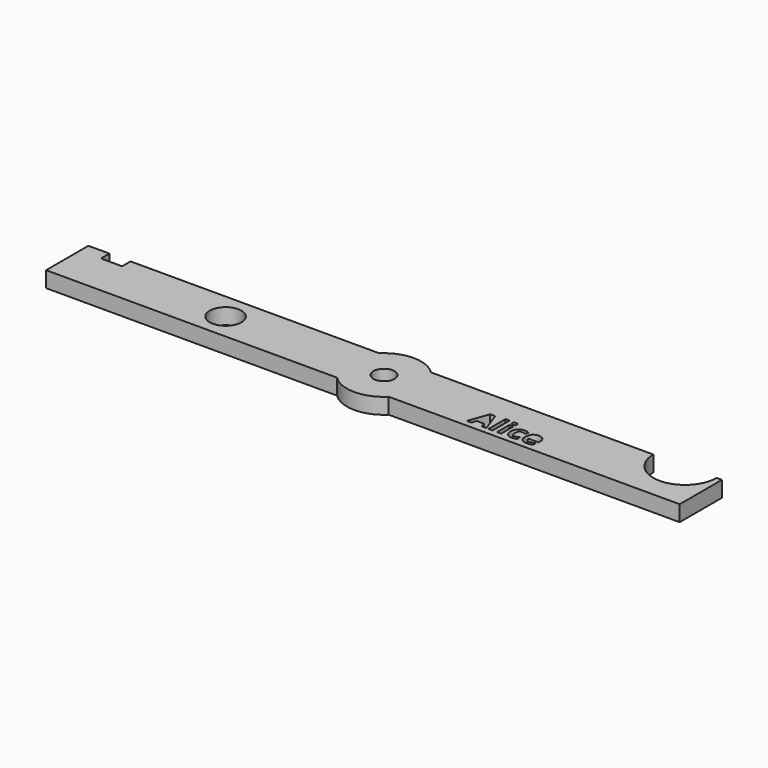
from build123d import *

# Parameters (mm, degrees)
F0_R     = 3
F0_W     = 0.793037466
F0_H     = 2.9075266591
F0_H_2   = 4.0467378773
F0_R_2   = 2
F1_DEPTH = 3


with BuildPart() as f1:
    # F0 (on Top) → F1 (new body)
    with BuildSketch(Plane.XY):
        with BuildLine():
            Line((-60, 5), (-60, -5))
            Line((-60, -5), (-4.8989794856, -5))
            ThreePointArc((-4.8989794856, -5), (-7, 0), (-4.8989794856, 5))
            Line((-4.8989794856, 5), (-52, 5))
            Line((-52, 5), (-52, 3))
            Line((-52, 3), (-56, 3))
            Line((-56, 3), (-56, 5))
            Line((-56, 5), (-60, 5))
        make_face()
        with Locations((-30, 0)):
            Circle(F0_R, mode=Mode.SUBTRACT)
        with BuildLine():
            ThreePointArc((7, 0), (6.4534043883, -2.7117470016), (4.8989794856, -5))
            Line((4.8989794856, -5), (60, -5))
            Line((60, -5), (60, 5))
            Line((60, 5), (59, 5))
            ThreePointArc((59, 5), (53, -1), (47, 5))
            Line((47, 5), (4.8989794856, 5))
            ThreePointArc((4.8989794856, 5), (6.4534043883, 2.7117470016), (7, 0))
        make_face()
        Polygon((22.4301818638, -3.8345400244), (21.5614188895, -3.8345400244), (21.2859777549, -2.9291625186), (19.8996184492, -2.9291625186), (19.6241773147, -3.8345400244), (18.7554143404, -3.8345400244), (20.0976697786, -0.0166429689), (21.0829335349, -0.0166429689), align=None, mode=Mode.SUBTRACT)
        with Locations((24.8679607269, -2.3807766948)):
            Rectangle(F0_W, F0_H, mode=Mode.SUBTRACT)
        with BuildLine():
            add(Edge.make_bspline(
                [(27.7725748665, -3.8399489893), (27.576187834, -3.8869653763), (27.277446543, -3.8869653763)],
                knots=[0, 0, 0, 1, 1, 1], degree=2))
            add(Edge.make_bspline(
                [(27.277446543, -3.8869653763), (25.9202124328, -3.8869653763), (25.9202124328, -2.3965875152)],
                knots=[0, 0, 0, 1, 1, 1], degree=2))
            add(Edge.make_bspline(
                [(25.9202124328, -2.3965875152), (25.9202124328, -1.6551432527), (26.2892702672, -1.2640334846)],
                knots=[0, 0, 0, 1, 1, 1], degree=2))
            add(Edge.make_bspline(
                [(26.2892702672, -1.2640334846), (26.6583281016, -0.8729237165), (27.3473470122, -0.8729237165)],
                knots=[0, 0, 0, 1, 1, 1], degree=2))
            add(Edge.make_bspline(
                [(27.3473470122, -0.8729237165), (27.8516289686, -0.8729237165), (28.252724518, -1.0701428974)],
                knots=[0, 0, 0, 1, 1, 1], degree=2))
            Line((28.252724518, -1.0701428974), (28.0180586571, -1.6842684482))
            add(Edge.make_bspline(
                [(28.0180586571, -1.6842684482), (27.8308252575, -1.6085429399), (27.6698045338, -1.5602783302)],
                knots=[0, 0, 0, 1, 1, 1], degree=2))
            add(Edge.make_bspline(
                [(27.6698045338, -1.5602783302), (27.5087838101, -1.5120137206), (27.3473470122, -1.5120137206)],
                knots=[0, 0, 0, 1, 1, 1], degree=2))
            add(Edge.make_bspline(
                [(27.3473470122, -1.5120137206), (26.7282285708, -1.5120137206), (26.7282285708, -2.3915946246)],
                knots=[0, 0, 0, 1, 1, 1], degree=2))
            add(Edge.make_bspline(
                [(26.7282285708, -2.3915946246), (26.7282285708, -3.2445467785), (27.3473470122, -3.2445467785)],
                knots=[0, 0, 0, 1, 1, 1], degree=2))
            add(Edge.make_bspline(
                [(27.3473470122, -3.2445467785), (27.576187834, -3.2445467785), (27.7713266438, -3.1833838679)],
                knots=[0, 0, 0, 1, 1, 1], degree=2))
            add(Edge.make_bspline(
                [(27.7713266438, -3.1833838679), (27.9664654537, -3.1222209574), (28.1611881893, -2.9915736518)],
                knots=[0, 0, 0, 1, 1, 1], degree=2))
            Line((28.1611881893, -2.9915736518), (28.1611881893, -3.6706067812))
            add(Edge.make_bspline(
                [(28.1611881893, -3.6706067812), (27.968961899, -3.7929326023), (27.7725748665, -3.8399489893)],
                knots=[0, 0, 0, 1, 1, 1], degree=2))
        make_face(mode=Mode.SUBTRACT)
        with BuildLine():
            add(Edge.make_bspline(
                [(30.7283661353, -3.8362043213), (30.4920359776, -3.8869653763), (30.150855116, -3.8869653763)],
                knots=[0, 0, 0, 1, 1, 1], degree=2))
            add(Edge.make_bspline(
                [(30.150855116, -3.8869653763), (29.4493539787, -3.8869653763), (29.0540834684, -3.499184202)],
                knots=[0, 0, 0, 1, 1, 1], degree=2))
            add(Edge.make_bspline(
                [(29.0540834684, -3.499184202), (28.6588129581, -3.1114030276), (28.6588129581, -2.4015804059)],
                knots=[0, 0, 0, 1, 1, 1], degree=2))
            add(Edge.make_bspline(
                [(28.6588129581, -2.4015804059), (28.6588129581, -1.6709540731), (29.0241261245, -1.2719388948)],
                knots=[0, 0, 0, 1, 1, 1], degree=2))
            add(Edge.make_bspline(
                [(29.0241261245, -1.2719388948), (29.3894392909, -0.8729237165), (30.034354334, -0.8729237165)],
                knots=[0, 0, 0, 1, 1, 1], degree=2))
            add(Edge.make_bspline(
                [(30.034354334, -0.8729237165), (30.6501441817, -0.8729237165), (30.9934054143, -1.2236742851)],
                knots=[0, 0, 0, 1, 1, 1], degree=2))
            add(Edge.make_bspline(
                [(30.9934054143, -1.2236742851), (31.336666647, -1.5744248538), (31.336666647, -2.1935432952)],
                knots=[0, 0, 0, 1, 1, 1], degree=2))
            Line((31.336666647, -2.1935432952), (31.336666647, -2.5788280242))
            Line((31.336666647, -2.5788280242), (29.4618362054, -2.5788280242))
            add(Edge.make_bspline(
                [(29.4618362054, -2.5788280242), (29.4751505805, -2.916680292), (29.6623839801, -3.106410137)],
                knots=[0, 0, 0, 1, 1, 1], degree=2))
            add(Edge.make_bspline(
                [(29.6623839801, -3.106410137), (29.8496173797, -3.2961399819), (30.1874696475, -3.2961399819)],
                knots=[0, 0, 0, 1, 1, 1], degree=2))
            add(Edge.make_bspline(
                [(30.1874696475, -3.2961399819), (30.4504285554, -3.2961399819), (30.6842622678, -3.2416342589)],
                knots=[0, 0, 0, 1, 1, 1], degree=2))
            add(Edge.make_bspline(
                [(30.6842622678, -3.2416342589), (30.9180959803, -3.1871285359), (31.1727334038, -3.0672991601)],
                knots=[0, 0, 0, 1, 1, 1], degree=2))
            Line((31.1727334038, -3.0672991601), (31.1727334038, -3.6814247109))
            add(Edge.make_bspline(
                [(31.1727334038, -3.6814247109), (30.9646962931, -3.7854432663), (30.7283661353, -3.8362043213)],
                knots=[0, 0, 0, 1, 1, 1], degree=2))
        make_face(mode=Mode.SUBTRACT)
        with Locations((23.2427748181, -1.8111710857)):
            Rectangle(F0_W, F0_H_2, mode=Mode.SUBTRACT)
        with BuildLine():
            add(Edge.make_bspline(
                [(24.8692089496, -0.5658609411), (24.4373239078, -0.5658609411), (24.4373239078, -0.1755833214)],
                knots=[0, 0, 0, 1, 1, 1], degree=2))
            add(Edge.make_bspline(
                [(24.4373239078, -0.1755833214), (24.4373239078, 0.2121978529), (24.8692089496, 0.2121978529)],
                knots=[0, 0, 0, 1, 1, 1], degree=2))
            add(Edge.make_bspline(
                [(24.8692089496, 0.2121978529), (25.3010939914, 0.2121978529), (25.3010939914, -0.1755833214)],
                knots=[0, 0, 0, 1, 1, 1], degree=2))
            add(Edge.make_bspline(
                [(25.3010939914, -0.1755833214), (25.3010939914, -0.3603202757), (25.1933307681, -0.4630906084)],
                knots=[0, 0, 0, 1, 1, 1], degree=2))
            add(Edge.make_bspline(
                [(25.1933307681, -0.4630906084), (25.0855675447, -0.5658609411), (24.8692089496, -0.5658609411)],
                knots=[0, 0, 0, 1, 1, 1], degree=2))
        make_face(mode=Mode.SUBTRACT)
        with BuildLine():
            Line((4.8989794856, -5), (-4.8989794856, -5))
            ThreePointArc((-4.8989794856, -5), (0, -7), (4.8989794856, -5))
        make_face()
        with BuildLine():
            ThreePointArc((-4.8989794856, 5), (-7, 0), (-4.8989794856, -5))
            Line((-4.8989794856, -5), (4.8989794856, -5))
            ThreePointArc((4.8989794856, -5), (6.4534043883, -2.7117470016), (7, 0))
            ThreePointArc((7, 0), (6.4534043883, 2.7117470016), (4.8989794856, 5))
            Line((4.8989794856, 5), (-4.8989794856, 5))
        make_face()
        Circle(F0_R_2, mode=Mode.SUBTRACT)
        with BuildLine():
            ThreePointArc((4.8989794856, 5), (0, 7), (-4.8989794856, 5))
            Line((-4.8989794856, 5), (4.8989794856, 5))
        make_face()
    extrude(amount=F1_DEPTH)


solid = f1.part
